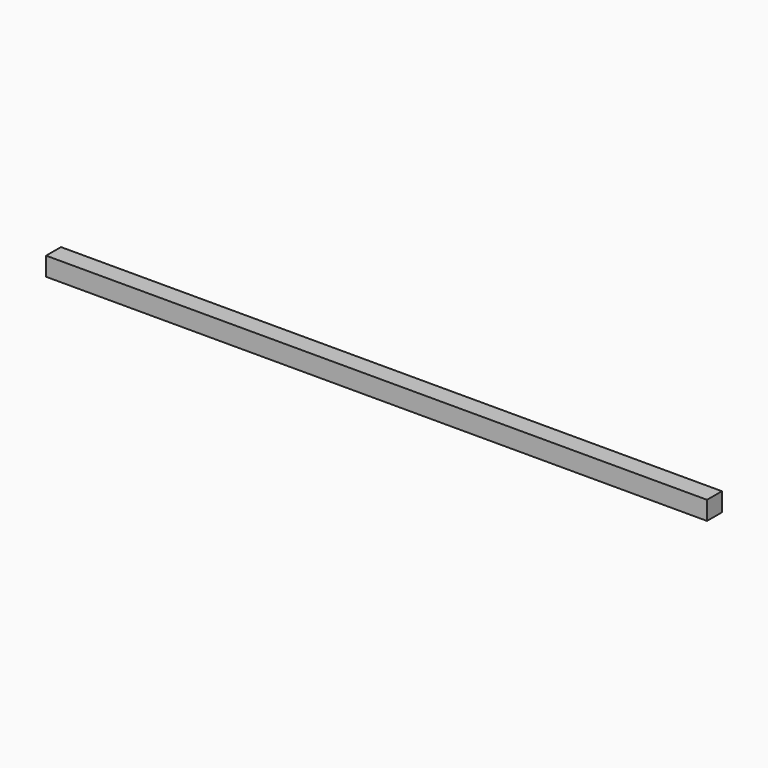
from build123d import *

# Parameters (mm, degrees)
BOX_W     = 355
BOX_H     = 10
BOX_DEPTH = 10


with BuildPart() as part:
    # Box → Box (new body)
    with BuildSketch(Plane(origin=(45.725, -159.788132, -52.12592), x_dir=(1, 0, 0), z_dir=(0, 0, 1))):
        with Locations((177.5, 5)):
            Rectangle(BOX_W, BOX_H)
    extrude(amount=BOX_DEPTH)


solid = part.part
